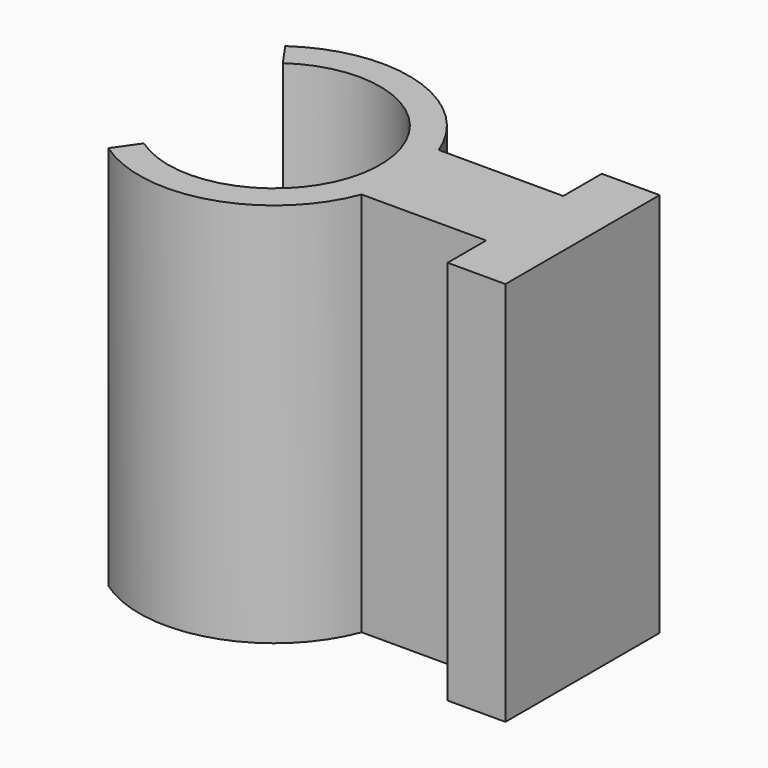
from build123d import *

# Parameters (mm, degrees)
F1_DEPTH = 20


with BuildPart() as f1:
    # F0 (on Top) → F1 (new body)
    with BuildSketch(Plane.XY):
        with BuildLine():
            ThreePointArc((-3.15467, 4.505336), (5.5, 0), (-3.15467, -4.505336))
            Line((-3.15467, -4.505336), (-4.015035, -5.734064))
            ThreePointArc((-4.015035, -5.734064), (2.050993, -6.692789), (6.538348, -2.5))
            Line((6.538348, -2.5), (13, -2.5))
            Line((13, -2.5), (13, -5))
            Line((13, -5), (16, -5))
            Line((16, -5), (16, 5))
            Line((16, 5), (13, 5))
            Line((13, 5), (13, 2.5))
            Line((13, 2.5), (6.538348, 2.5))
            ThreePointArc((6.538348, 2.5), (2.050993, 6.692789), (-4.015035, 5.734064))
            Line((-4.015035, 5.734064), (-3.15467, 4.505336))
        make_face()
    extrude(amount=F1_DEPTH)


solid = f1.part
